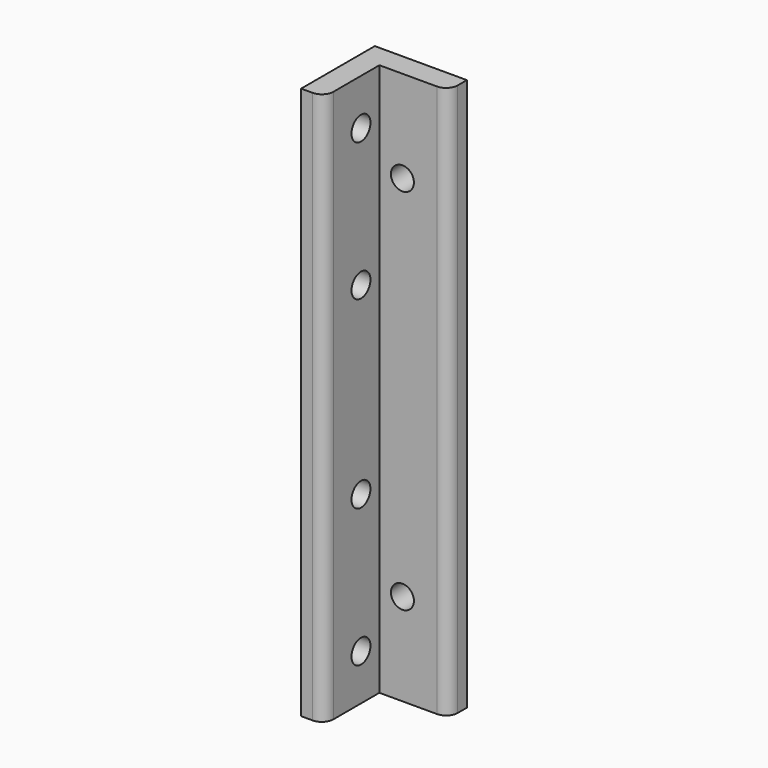
from build123d import *

# Parameters (mm, degrees)
F1_DEPTH = 152.4
F4_D     = 6.35
F4_DEPTH = 25.4
F5_D     = 6.5278
F5_DEPTH = 25.4


with BuildPart() as f1:
    # F0 (on Top) → F1 (new body)
    with BuildSketch(Plane.XY):
        with BuildLine():
            Line((25.4, 0), (0, 0))
            Line((0, 0), (0, -25.4))
            Line((0, -25.4), (3.175, -25.4))
            ThreePointArc((3.175, -25.4), (5.420064, -24.470064), (6.35, -22.225))
            Line((6.35, -22.225), (6.35, -19.05))
            Line((6.35, -19.05), (6.35, -6.35))
            Line((6.35, -6.35), (18.926421, -6.35))
            Line((18.926421, -6.35), (19.173579, -6.35))
            Line((19.173579, -6.35), (22.225, -6.35))
            ThreePointArc((22.225, -6.35), (24.470064, -5.420064), (25.4, -3.175))
            Line((25.4, -3.175), (25.4, -0.001203))
            Line((25.4, -0.001203), (25.4, 0))
        make_face()
    extrude(amount=F1_DEPTH)

    # F4
    with Locations(Plane(origin=(0, 0, 0), x_dir=(-1, 0, 0), z_dir=(0, 1, 0))):
        with Locations((-12.7, 127), (-12.7, 25.4)):
            Hole(F4_D / 2, depth=F4_DEPTH)

    # F5
    with Locations(Plane(origin=(0, 0, 0), x_dir=(0, -1, 0), z_dir=(-1, 0, 0))):
        with Locations((12.7, 12.7), (12.7, 50.8), (12.7, 101.6), (12.7, 139.7)):
            Hole(F5_D / 2, depth=F5_DEPTH)


solid = f1.part
